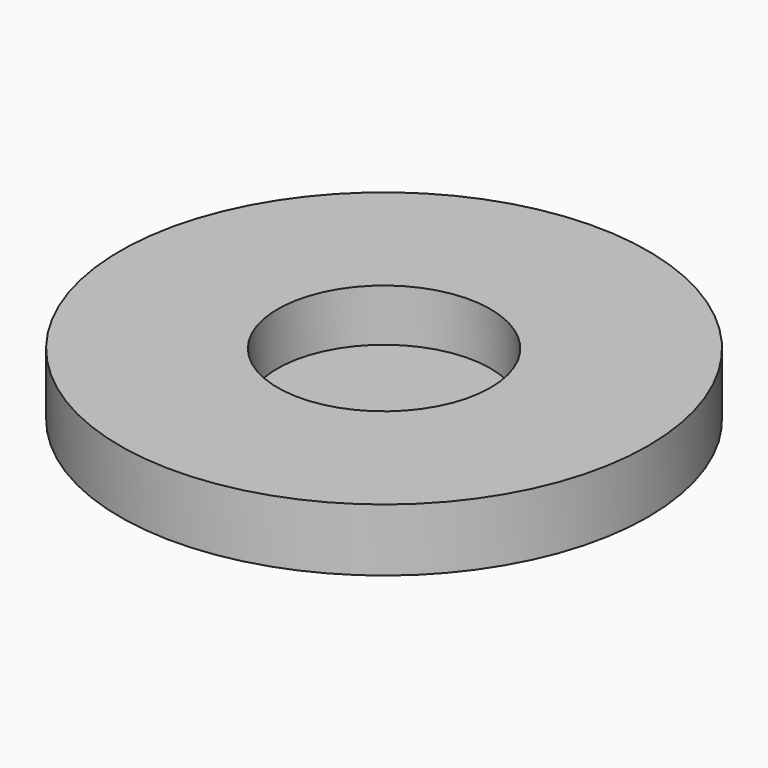
from build123d import *

# Parameters (mm, degrees)
SKETCH_R     = 12.65
PAD_DEPTH    = 3
SKETCH001_R  = 5.1
POCKET_DEPTH = 2.5


with BuildPart() as part:
    # Sketch → Pad (new body)
    with BuildSketch(Plane.XY):
        Circle(SKETCH_R)
    extrude(amount=PAD_DEPTH)

    # Sketch001 (on Face3 of Pad) → Pocket (cut)
    with BuildSketch(Plane.XY.offset(3)):
        Circle(SKETCH001_R)
    extrude(amount=-POCKET_DEPTH, mode=Mode.SUBTRACT)


solid = part.part
